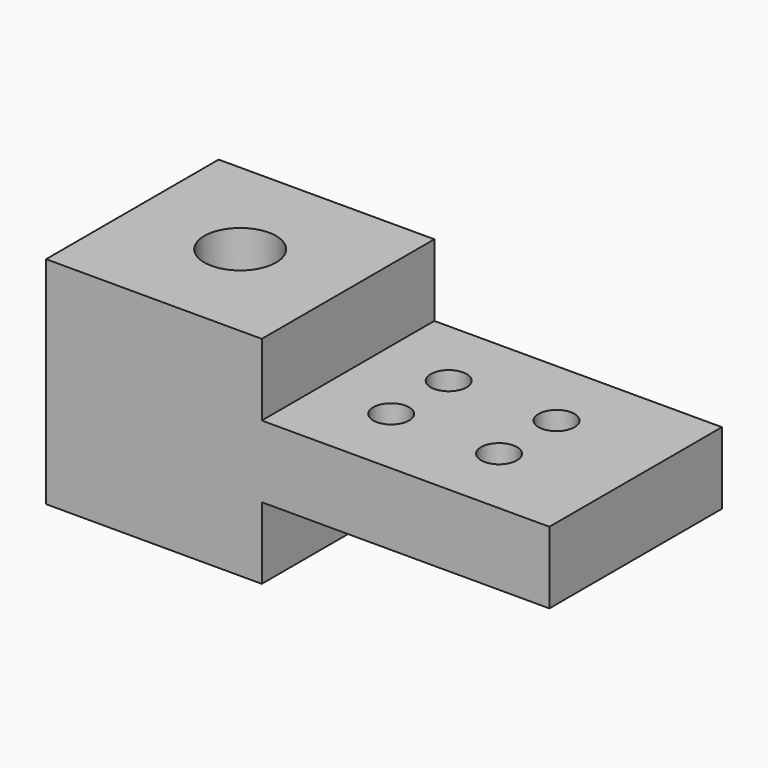
from build123d import *

# Parameters (mm, degrees)
F1_DEPTH = 19.05
F2_R     = 6.35
F2_R_2   = 3.175
F3_DEPTH = 38.101


with BuildPart() as f1:
    # F0 (on Front) → F1 (new body, symmetric)
    with BuildSketch(Plane.XZ):
        Polygon((38.1, 19.05), (0, 19.05), (0, -19.05), (38.1, -19.05), (38.1, -6.35), (88.9, -6.35), (88.9, 6.35), (38.1, 6.35), align=None)
    extrude(amount=F1_DEPTH, both=True)

    # F2 (on face) → F3 (cut, through all)
    with BuildSketch(Plane.XY.offset(19.05)):
        with Locations((19.05, 0)):
            Circle(F2_R)
        with Locations((50.8, 6.35)):
            Circle(F2_R_2)
        with Locations((50.8, -6.35)):
            Circle(F2_R_2)
        with Locations((69.85, -6.35)):
            Circle(F2_R_2)
        with Locations((69.85, 6.35)):
            Circle(F2_R_2)
    extrude(amount=-F3_DEPTH, mode=Mode.SUBTRACT)


solid = f1.part
